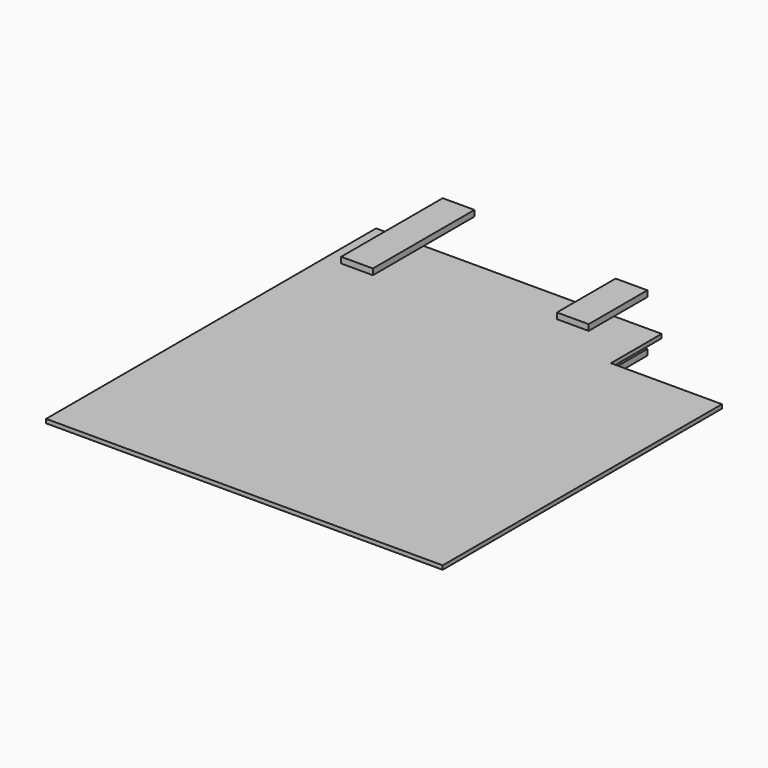
from build123d import *

# Parameters (mm, degrees)
F1_DEPTH  = 6.35
F2_W      = 50.8
F2_H      = 101.6
F3_DEPTH  = 9.525
F4_W      = 50.8
F4_H      = 9.525
F5_DEPTH  = 76.2
F6_W      = 50.8
F6_H      = 9.525
F7_DEPTH  = 92.075
F8_R      = 6.35
F9_DEPTH  = 25.4
F10_W     = 50.8
F10_H     = 66.675
F10_H_2   = 50.8
F11_DEPTH = 9.525


with BuildPart() as f1:
    # F0 (on Top) → F1 (new body)
    with BuildSketch(Plane.XY):
        Polygon((-317.5, -330.2), (317.5, -330.2), (317.5, 228.6), (139.7, 228.6), (139.7, 330.2), (-317.5, 330.2), align=None)
    extrude(amount=F1_DEPTH)

    # F2 (on face) → F3 (join)
    with BuildSketch(Plane.XY.offset(6.35)):
        with Locations((-266.7, 279.4)):
            Rectangle(F2_W, F2_H)
        with Locations((-266.7, 381)):
            Rectangle(F2_W, F2_H)
    extrude(amount=F3_DEPTH)

    # F4 (on face) → F5 (join)
    with BuildSketch(Plane(origin=(0, 0, 0), x_dir=(1, 0, 0), z_dir=(0, 0, -1))):
        with Locations((38.1, -300.0375)):
            Rectangle(F4_W, F4_H)
    extrude(amount=F5_DEPTH)

    # F6 (on face) → F7 (join)
    with BuildSketch(Plane(origin=(0, 304.8, 0), x_dir=(-1, 0, 0), z_dir=(0, 1, 0))):
        with Locations((-38.1, -71.4375)):
            Rectangle(F6_W, F6_H)
    extrude(amount=F7_DEPTH)

    # F8 (on face) → F9 (cut)
    with BuildSketch(Plane(origin=(0, 0, -76.2), x_dir=(1, 0, 0), z_dir=(0, 0, -1))):
        with Locations((38.1, -384.175)):
            Circle(F8_R)
    extrude(amount=-F9_DEPTH, mode=Mode.SUBTRACT)

    # F10 (on face) → F11 (join)
    with BuildSketch(Plane.XY.offset(6.35)):
        with Locations((38.1, 363.5375)):
            Rectangle(F10_W, F10_H)
        with Locations((38.1, 304.8)):
            Rectangle(F10_W, F10_H_2)
    extrude(amount=F11_DEPTH)


solid = f1.part
